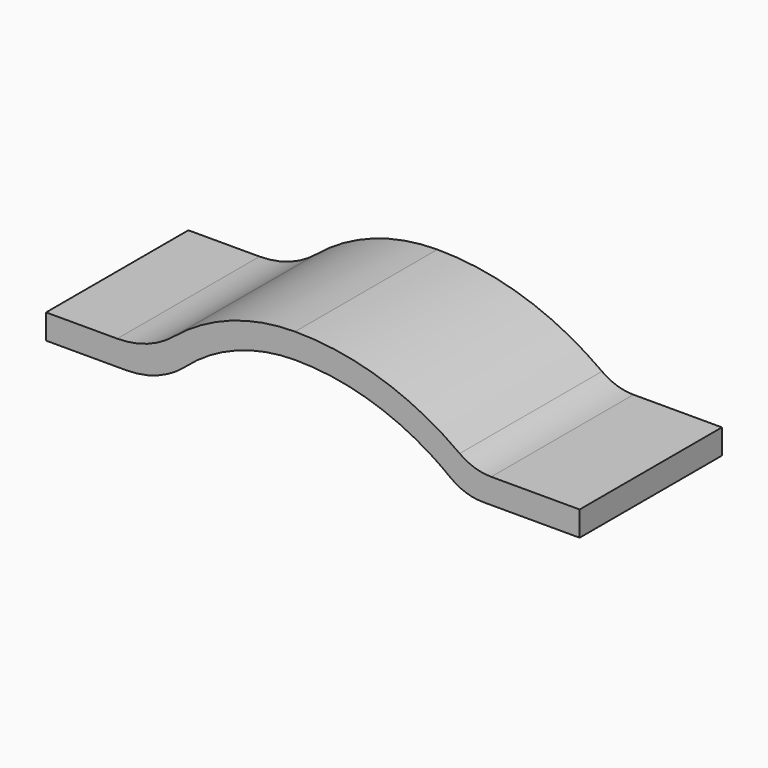
from build123d import *

# Parameters (mm, degrees)
F6_DEPTH  = 25
F7_DEPTH  = 25
F8_DEPTH  = 25
F9_DEPTH  = 25
F10_DEPTH = 25
F11_R     = 25
F12_R     = 15


with BuildPart() as f6:
    # F3 (on Front) → F6 (new body, symmetric)
    with BuildSketch(Plane.XZ):
        Polygon((-70, 0), (0, 0), (80, 0), (80, 7), (50, 7), (-40, 7), (-70, 7), align=None)
    extrude(amount=F6_DEPTH, both=True)

    # F4 (on Front) → F7 (join, symmetric)
    with BuildSketch(Plane.XZ):
        with BuildLine():
            Line((0, 18), (0, 25))
            ThreePointArc((0, 25), (-25.8467706988, 18.3343230299), (-45.2462398683, 0))
            Line((-45.2462398683, 0), (-36.7151195014, 0))
            ThreePointArc((-36.7151195014, 0), (-20.4450483003, 13.257910642), (0, 18))
        make_face()
    extrude(amount=F7_DEPTH, both=True)

    # F5 (on Front) → F8 (join, symmetric)
    with BuildSketch(Plane.XZ):
        with BuildLine():
            Line((47.4130783645, 0), (57.4214439232, 0))
            ThreePointArc((57.4214439232, 0), (31.3138237134, 18.4789544508), (0, 25))
            Line((0, 25), (0, 18))
            ThreePointArc((0, 18), (25.3574446662, 13.3485839491), (47.4130783645, 0))
        make_face()
    extrude(amount=F8_DEPTH, both=True)

    # F4 (on Front) → F9 (cut, symmetric)
    with BuildSketch(Plane.XZ):
        with BuildLine():
            Line((0, 0), (0, 18))
            ThreePointArc((0, 18), (-20.4450483003, 13.257910642), (-36.7151195014, 0))
            Line((-36.7151195014, 0), (0, 0))
        make_face()
        with BuildLine():
            Line((0, 0), (-36.7151195014, 0))
            ThreePointArc((-36.7151195014, 0), (-41.7023550864, -48.8894927447), (0, -74.8888888889))
            Line((0, -74.8888888889), (0, 0))
        make_face()
    extrude(amount=F9_DEPTH, both=True, mode=Mode.SUBTRACT)

    # F5 (on Front) → F10 (cut, symmetric)
    with BuildSketch(Plane.XZ):
        with BuildLine():
            Line((0, 0), (0, -124.8888888889))
            ThreePointArc((0, -124.8888888889), (66.7930283935, -78.8018891107), (47.4130783645, 0))
            Line((47.4130783645, 0), (0, 0))
        make_face()
        with BuildLine():
            Line((0, 0), (47.4130783645, 0))
            ThreePointArc((47.4130783645, 0), (25.3574446662, 13.3485839491), (0, 18))
            Line((0, 18), (0, 0))
        make_face()
    extrude(amount=F10_DEPTH, both=True, mode=Mode.SUBTRACT)

    # F11
    f11_edges = [f6.edges().sort_by_distance(p)[0] for p in [
        (-40, 0, 7),
        (-36.71512, 0, 0),
    ]]
    fillet(f11_edges, radius=F11_R)

    # F12
    f12_edges = [f6.edges().sort_by_distance(p)[0] for p in [
        (50, 0, 7),
        (47.413078, 0, 0),
    ]]
    fillet(f12_edges, radius=F12_R)


solid = f6.part
